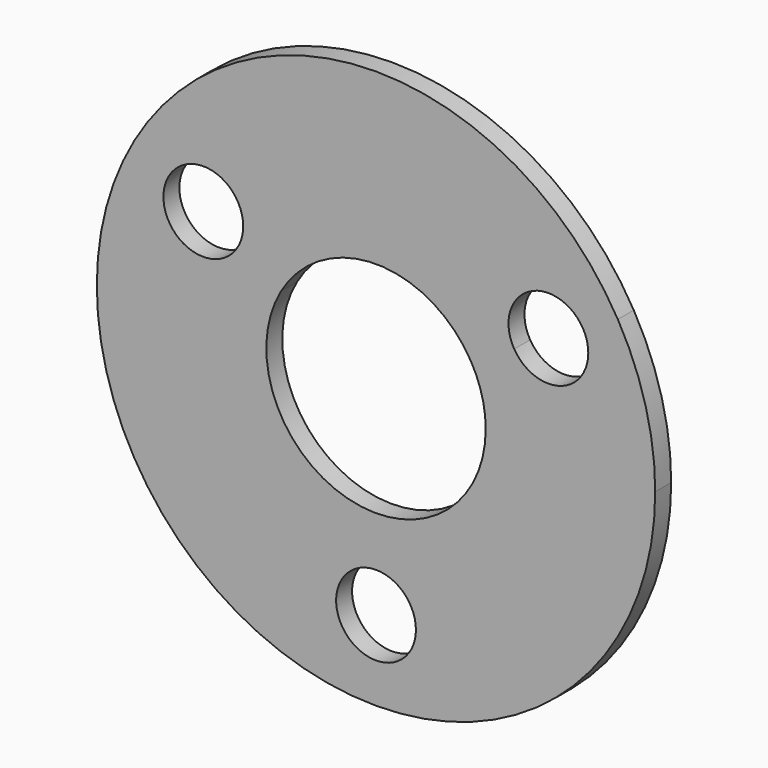
from build123d import *

# Parameters (mm, degrees)
F0_R     = 12.7
F1_DEPTH = 6.35


with BuildPart() as f1:
    # F0 (on Front) → F1 (new body)
    with BuildSketch(Plane.XZ):
        with BuildLine():
            Line((43.995441, 25.40078), (30.245937, 17.4625))
            ThreePointArc((30.245937, 17.4625), (33.734959, 9.039255), (34.925, 0))
            ThreePointArc((34.925, 0), (-9.039255, -33.734959), (-30.245937, 17.4625))
            Line((-30.245937, 17.4625), (-43.994091, 25.4))
            ThreePointArc((-43.994091, 25.4), (-61.342613, 20.751477), (-65.991136, 38.1))
            Line((-65.991136, 38.1), (-76.989658, 44.45))
            ThreePointArc((-76.989658, 44.45), (-23.009013, -85.870806), (88.9, 0))
            ThreePointArc((88.9, 0), (85.870806, 23.009013), (76.989658, 44.45))
            Line((76.989658, 44.45), (65.98911, 38.09883))
            ThreePointArc((65.98911, 38.09883), (67.176599, 35.121917), (67.581014, 31.942516))
            ThreePointArc((67.581014, 31.942516), (58.275364, 19.704527), (43.995441, 25.40078))
        make_face()
        with Locations((0, -63.5)):
            Circle(F0_R, mode=Mode.SUBTRACT)
        with BuildLine():
            ThreePointArc((-30.245937, 17.4625), (0, 34.925), (30.245937, 17.4625))
            Line((30.245937, 17.4625), (43.995441, 25.40078))
            ThreePointArc((43.995441, 25.40078), (48.531014, 42.941039), (65.98911, 38.09883))
            Line((65.98911, 38.09883), (76.989658, 44.45))
            ThreePointArc((76.989658, 44.45), (0, 88.9), (-76.989658, 44.45))
            Line((-76.989658, 44.45), (-65.991136, 38.1))
            ThreePointArc((-65.991136, 38.1), (-51.705611, 44.017258), (-42.292613, 31.75))
            ThreePointArc((-42.292613, 31.75), (-42.725355, 28.462998), (-43.994091, 25.4))
            Line((-43.994091, 25.4), (-30.245937, 17.4625))
        make_face()
    extrude(amount=F1_DEPTH)


solid = f1.part
